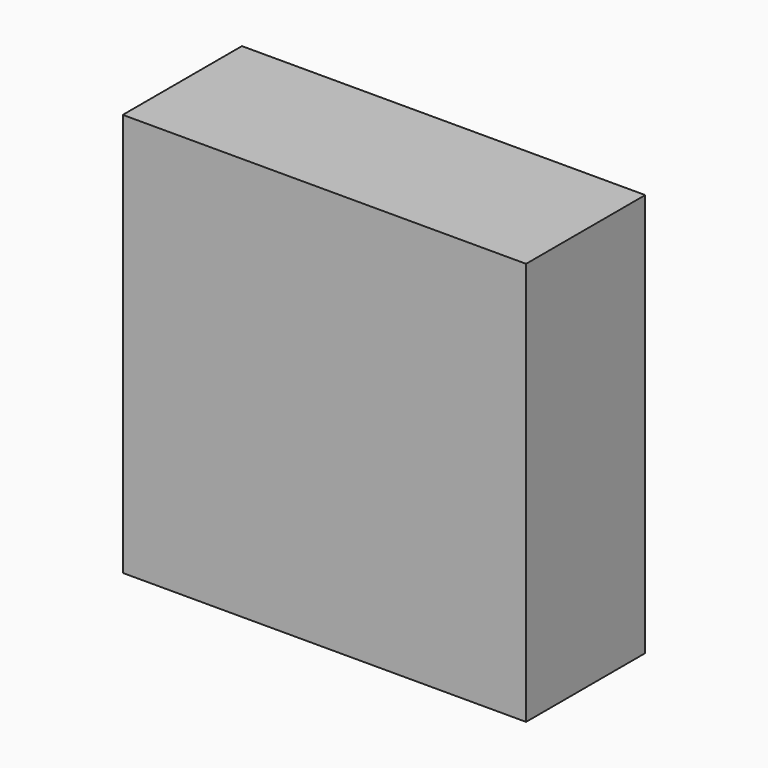
from build123d import *

# Parameters (mm, degrees)
F0_W     = 65
F0_H     = 65
F0_W_2   = 60
F0_H_2   = 60
F1_DEPTH = 24
F2_DEPTH = 21


with BuildPart() as f1:
    # F0 (on Front) → F1 (new body)
    with BuildSketch(Plane.XZ):
        with Locations((-4.1498354938, 0)):
            Rectangle(F0_W, F0_H)
        with Locations((-4.1498354938, 0)):
            Rectangle(F0_W_2, F0_H_2, mode=Mode.SUBTRACT)
        with Locations((-4.1498354938, 0)):
            Rectangle(F0_W_2, F0_H_2)
    extrude(amount=F1_DEPTH)

    # F0 (on Front) → F2 (cut)
    with BuildSketch(Plane.XZ):
        with Locations((-4.1498354938, 0)):
            Rectangle(F0_W_2, F0_H_2)
    extrude(amount=F2_DEPTH, mode=Mode.SUBTRACT)


solid = f1.part
